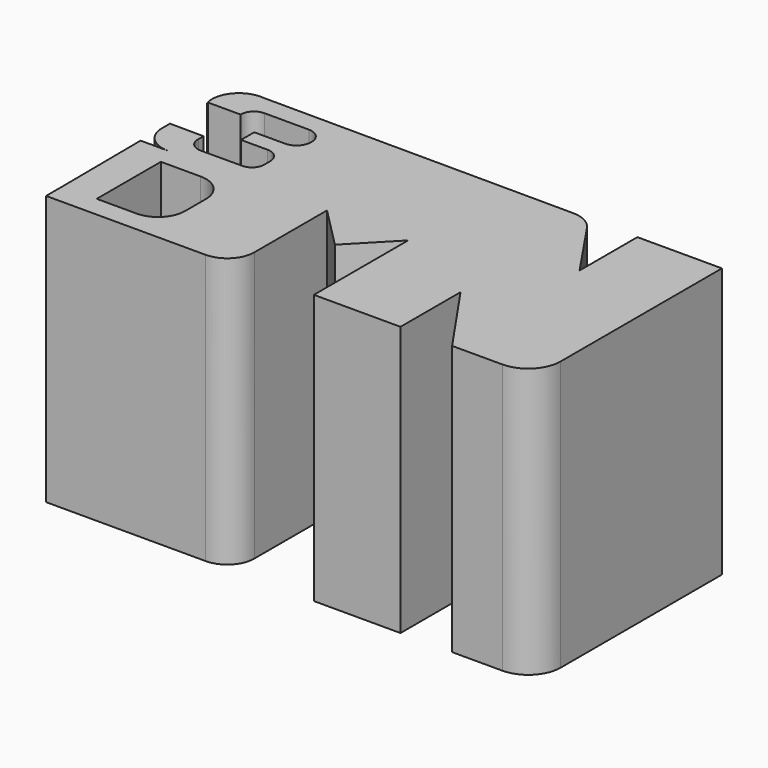
from build123d import *

# Parameters (mm, degrees)
F1_DEPTH = 25


with BuildPart() as f1:
    # F0 (on Top) → F1 (new body)
    with BuildSketch(Plane.XY):
        with BuildLine():
            Line((-22.786474, -11.536708), (-7.983426, -11.536708))
            ThreePointArc((-7.983426, -11.536708), (-6.215659, -10.804475), (-5.483426, -9.036708))
            Line((-5.483426, -9.036708), (-5.483426, -0.607649))
            Line((-5.483426, -0.607649), (-1.672428, -4.450142))
            Line((-1.672428, -4.450142), (2.044082, -0.607649))
            Line((2.044082, -0.607649), (2.044082, -11.536708))
            Line((2.044082, -11.536708), (10.075524, -11.536708))
            Line((10.075524, -11.536708), (10.075524, -4.576126))
            Line((10.075524, -4.576126), (14.862892, -11.536708))
            Line((14.862892, -11.536708), (19.524276, -11.536708))
            ThreePointArc((19.524276, -11.536708), (21.645597, -10.658028), (22.524276, -8.536708))
            Line((22.524276, -8.536708), (22.524276, 10.158991))
            Line((22.524276, 10.158991), (14.685626, 10.158991))
            Line((14.685626, 10.158991), (14.685626, 3.457541))
            Line((14.685626, 3.457541), (10.931709, 9.008034))
            ThreePointArc((10.931709, 9.008034), (9.965858, 9.877737), (8.705565, 10.195408))
            Line((8.705565, 10.195408), (-20.13615, 10.306249))
            ThreePointArc((-20.13615, 10.306249), (-22.311759, 9.415733), (-22.786474, 7.113356))
            Line((-22.786474, 7.113356), (-22.786474, 7.220973))
            Line((-22.786474, 7.220973), (-19.752085, 7.220973))
            Line((-19.752085, 7.220973), (-19.752085, 7.267032))
            ThreePointArc((-19.752085, 7.267032), (-19.401118, 8.114342), (-18.553809, 8.465309))
            Line((-18.553809, 8.465309), (-14.427898, 8.465309))
            ThreePointArc((-14.427898, 8.465309), (-13.463502, 8.065843), (-13.064036, 7.101447))
            Line((-13.064036, 7.101447), (-13.064036, 6.980661))
            ThreePointArc((-13.064036, 6.980661), (-13.44803, 6.053618), (-14.375072, 5.669625))
            Line((-14.375072, 5.669625), (-17.249033, 5.669625))
            Line((-17.249033, 5.669625), (-17.249033, 4.13342))
            Line((-17.249033, 4.13342), (-14.804287, 4.13342))
            ThreePointArc((-14.804287, 4.13342), (-13.890238, 3.755928), (-13.508925, 2.843465))
            Line((-13.508925, 2.843465), (-13.506027, 2.150697))
            ThreePointArc((-13.506027, 2.150697), (-13.833554, 1.350526), (-14.630957, 1.016315))
            Line((-14.630957, 1.016315), (-18.474126, 1.000238))
            ThreePointArc((-18.474126, 1.000238), (-19.391586, 1.390063), (-19.740027, 2.324025))
            Line((-19.740027, 2.324025), (-19.712353, 2.889719))
            Line((-19.712353, 2.889719), (-22.861291, 2.917016))
            Line((-22.861291, 2.917016), (-22.861291, 2.005195))
            ThreePointArc((-22.861291, 2.005195), (-22.129058, 0.237428), (-20.361291, -0.494805))
            Line((-20.361291, -0.494805), (-22.861291, -0.494805))
            Line((-22.861291, -0.494805), (-22.786474, -9.606927))
            Line((-22.786474, -9.606927), (-22.786474, -11.536708))
        make_face()
        with BuildLine():
            Line((-19.634925, -9.606927), (-19.634925, -2.168437))
            Line((-19.634925, -2.168437), (-15.943606, -2.168437))
            ThreePointArc((-15.943606, -2.168437), (-14.175839, -2.90067), (-13.443606, -4.668437))
            Line((-13.443606, -4.668437), (-13.443606, -7.106927))
            ThreePointArc((-13.443606, -7.106927), (-14.175839, -8.874694), (-15.943606, -9.606927))
            Line((-15.943606, -9.606927), (-19.634925, -9.606927))
        make_face(mode=Mode.SUBTRACT)
    extrude(amount=F1_DEPTH)


solid = f1.part
